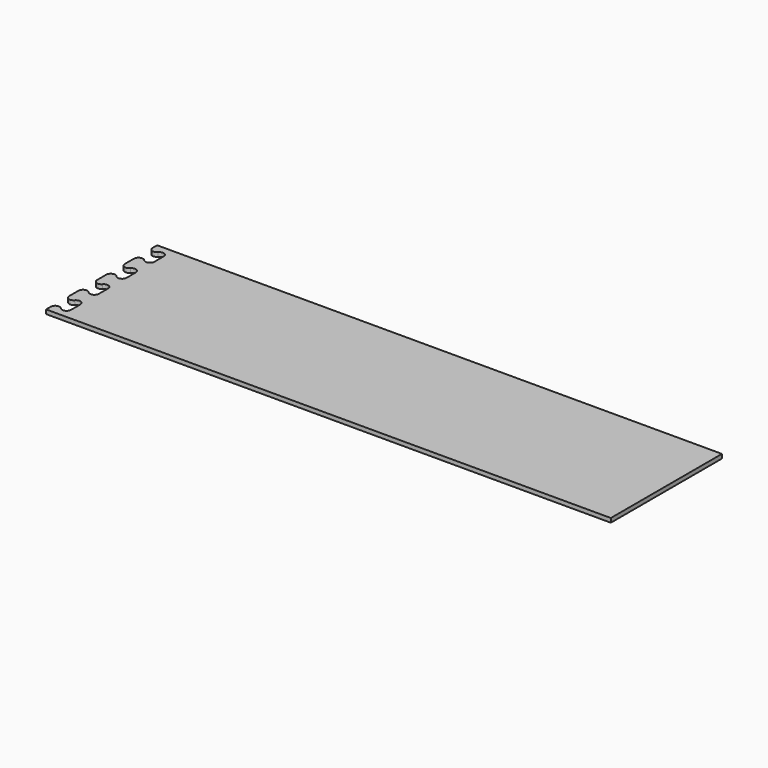
from build123d import *

# Parameters (mm, degrees)
F1_DEPTH = 18


with BuildPart() as f1:
    # F0 (on Top) → F1 (new body)
    with BuildSketch(Plane.XY):
        with BuildLine():
            Line((1203.650336, 978.601654), (-1236.349664, 978.601654))
            Line((-1236.349664, 978.601654), (-1236.349664, 953.601654))
            ThreePointArc((-1236.349664, 953.601654), (-1223.725461, 935.504177), (-1202.381669, 941.101654))
            ThreePointArc((-1202.381669, 941.101654), (-1181.037877, 946.699132), (-1168.413673, 928.601654))
            Line((-1168.413673, 928.601654), (-1168.413673, 903.601654))
            Line((-1168.413673, 903.601654), (-1168.413673, 878.601654))
            ThreePointArc((-1168.413673, 878.601654), (-1181.037877, 860.504177), (-1202.381669, 866.101654))
            ThreePointArc((-1202.381669, 866.101654), (-1223.725461, 871.699132), (-1236.349664, 853.601654))
            Line((-1236.349664, 853.601654), (-1236.349664, 803.601654))
            ThreePointArc((-1236.349664, 803.601654), (-1223.725461, 785.504177), (-1202.381669, 791.101654))
            ThreePointArc((-1202.381669, 791.101654), (-1181.037877, 796.699132), (-1168.413673, 778.601654))
            Line((-1168.413673, 778.601654), (-1168.413673, 753.601654))
            Line((-1168.413673, 753.601654), (-1168.413673, 728.601654))
            ThreePointArc((-1168.413673, 728.601654), (-1181.037877, 710.504177), (-1202.381669, 716.101654))
            ThreePointArc((-1202.381669, 716.101654), (-1223.725461, 721.699132), (-1236.349664, 703.601654))
            Line((-1236.349664, 703.601654), (-1236.349664, 653.601654))
            ThreePointArc((-1236.349664, 653.601654), (-1223.725461, 635.504177), (-1202.381669, 641.101654))
            ThreePointArc((-1202.381669, 641.101654), (-1181.037877, 646.699132), (-1168.413673, 628.601654))
            Line((-1168.413673, 628.601654), (-1168.413673, 603.601654))
            Line((-1168.413673, 603.601654), (-1168.413673, 578.601654))
            ThreePointArc((-1168.413673, 578.601654), (-1181.037877, 560.504177), (-1202.381669, 566.101654))
            ThreePointArc((-1202.381669, 566.101654), (-1223.725461, 571.699132), (-1236.349664, 553.601654))
            Line((-1236.349664, 553.601654), (-1236.349664, 503.601654))
            ThreePointArc((-1236.349664, 503.601654), (-1223.725461, 485.504177), (-1202.381669, 491.101654))
            ThreePointArc((-1202.381669, 491.101654), (-1181.037877, 496.699132), (-1168.413673, 478.601654))
            Line((-1168.413673, 478.601654), (-1168.413673, 453.601654))
            Line((-1168.413673, 453.601654), (-1168.413673, 428.601654))
            ThreePointArc((-1168.413673, 428.601654), (-1181.037877, 410.504177), (-1202.381669, 416.101654))
            ThreePointArc((-1202.381669, 416.101654), (-1223.725461, 421.699132), (-1236.349664, 403.601654))
            Line((-1236.349664, 403.601654), (-1236.349664, 378.601654))
            Line((-1236.349664, 378.601654), (1203.650336, 378.601654))
            Line((1203.650336, 378.601654), (1203.650336, 978.601654))
        make_face()
    extrude(amount=F1_DEPTH)


solid = f1.part
